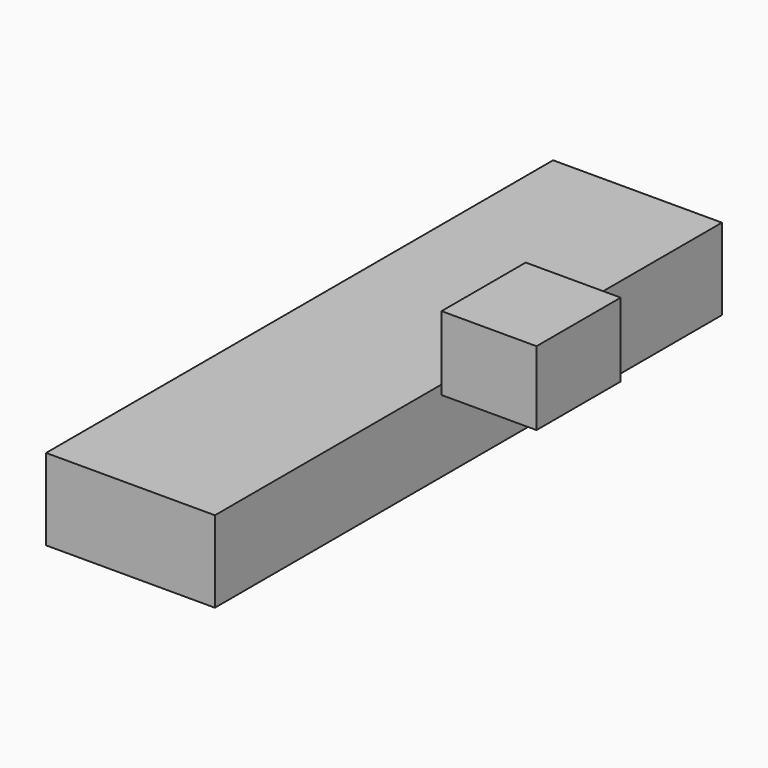
from build123d import *

# Parameters (mm, degrees)
F1_DEPTH = 42.164
F2_DEPTH = 127


with BuildPart() as f1:
    # F0 (on Front) → F1 (new body)
    with BuildSketch(Plane.XZ):
        Polygon((56.189537, 59.059437), (56.189537, 40.27924), (56.189537, 29.454196), (94.253421, 29.454196), (94.253421, 59.059437), align=None)
    extrude(amount=F1_DEPTH)


with BuildPart() as f2:
    # F0 (on Front) → F2 (new body, symmetric)
    with BuildSketch(Plane.XZ):
        Polygon((28.094774, 14.047385), (-34.438748, 14.047385), (-34.438748, -18.578799), (33.230375, -18.578799), (33.230375, 14.047385), align=None)
    extrude(amount=F2_DEPTH, both=True)


solid = Compound([f1.part, f2.part])
